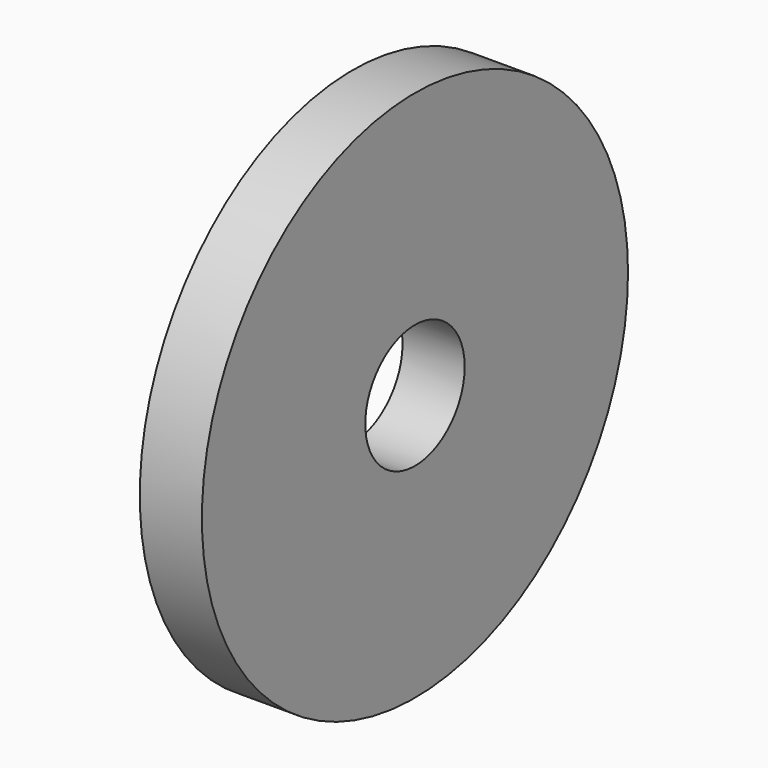
from build123d import *

# Parameters (mm, degrees)
F0_R     = 30
F1_DEPTH = 7
F2_R     = 7
F3_DEPTH = 7.5


with BuildPart() as f1:
    # F0 (on Right) → F1 (new body)
    with BuildSketch(Plane.YZ):
        Circle(F0_R)
    extrude(amount=F1_DEPTH)

    # F2 (on Right) → F3 (cut, symmetric)
    with BuildSketch(Plane.YZ):
        Circle(F2_R)
    extrude(amount=F3_DEPTH, both=True, mode=Mode.SUBTRACT)


solid = f1.part
